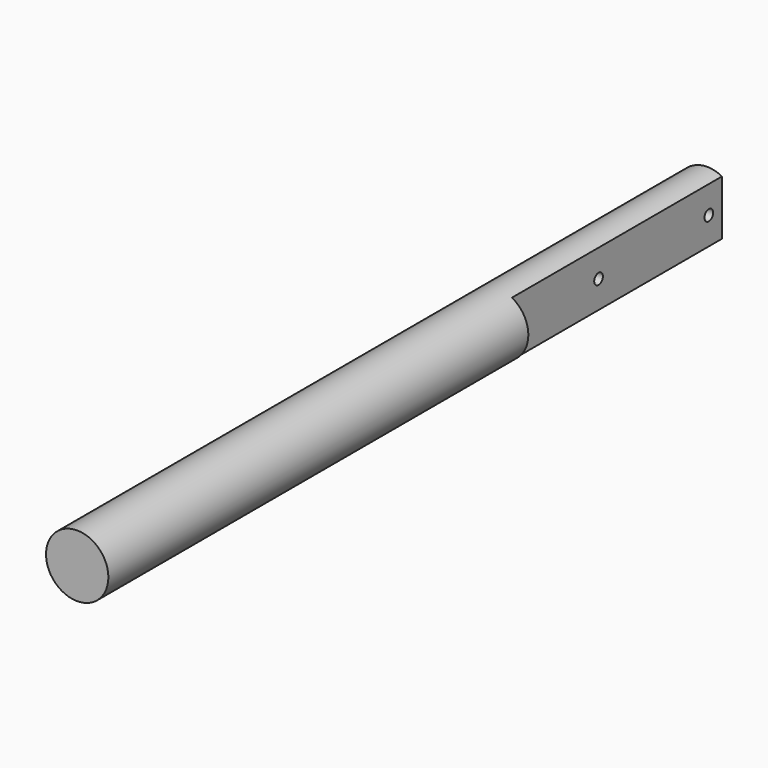
from build123d import *

# Parameters (mm, degrees)
F0_R     = 9.5
F1_DEPTH = 240
F3_W     = 80
F3_H     = 45.5118790269
F4_DEPTH = 5
F6_D     = 3.3


with BuildPart() as f1:
    # F0 (on Front) → F1 (new body)
    with BuildSketch(Plane.XZ):
        Circle(F0_R)
    extrude(amount=F1_DEPTH)

    # F3 (on offset) → F4 (cut)
    with BuildSketch(Plane.YZ.offset(9.5)):
        with Locations((-40, 0.18652156)):
            Rectangle(F3_W, F3_H)
    extrude(amount=-F4_DEPTH, mode=Mode.SUBTRACT)

    # F6 (through all)
    with Locations(Plane.YZ.offset(4.5)):
        with Locations((-47, 0), (-5, 0)):
            Hole(F6_D / 2)


solid = f1.part
